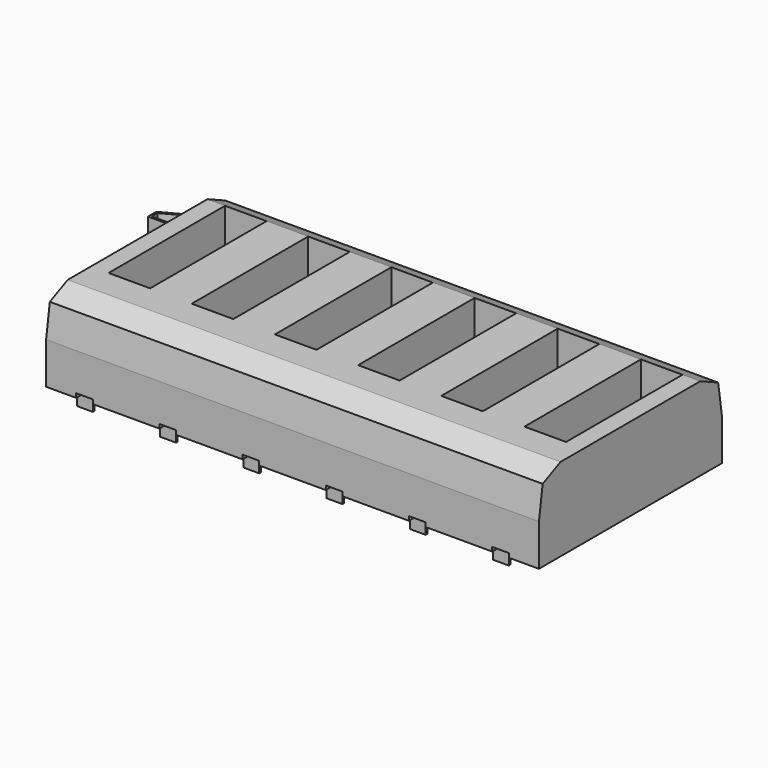
from build123d import *

# Parameters (mm, degrees)
SKETCH_W               = 23.7
SKETCH_H               = 11
PAD_DEPTH              = 4
CHAMFER_1_SIZE2        = 0.3
CHAMFER_1_SIZE         = 2
CHAMFER_2_SIZE2        = 0.3
CHAMFER_2_SIZE         = 2
CHAMFER001_1_SIZE2     = 1
CHAMFER001_1_SIZE      = 0.5
CHAMFER001_2_SIZE2     = 1
CHAMFER001_2_SIZE      = 0.5
SKETCH001_W            = 2
SKETCH001_H            = 7
POCKET_DEPTH           = 2
LINEARPATTERN_COUNT    = 6
LINEARPATTERN_PITCH    = 4
SKETCH002_W            = 0.8
SKETCH002_H            = 2.2
POCKET001_DEPTH        = 0.2
LINEARPATTERN001_COUNT = 6
LINEARPATTERN001_PITCH = 4
SKETCH003_W            = 1.2
SKETCH003_H            = 1.8
POCKET002_DEPTH        = 0.2
LINEARPATTERN002_COUNT = 5
LINEARPATTERN002_PITCH = 4
PAD001_DEPTH           = 1.8
SKETCH005_W            = 23
SKETCH005_H            = 10
PAD002_DEPTH           = 0.2
SKETCH006_W            = 0.76
SKETCH006_H            = 2.11
PAD003_DEPTH           = 0.2
LINEARPATTERN003_COUNT = 6
LINEARPATTERN003_PITCH = 4
SKETCH007_W            = 0.76
SKETCH007_H            = 1.75
PAD004_DEPTH           = 0.2
LINEARPATTERN004_COUNT = 5
LINEARPATTERN004_PITCH = 4
SKETCH008_W            = 0.75
SKETCH008_H            = 0.1
PAD005_DEPTH           = 0.2
PAD005_DEPTH_BACK      = 1
LINEARPATTERN005_COUNT = 5
LINEARPATTERN005_PITCH = 4
SKETCH009_W            = 0.76
SKETCH009_H            = 0.1
PAD006_DEPTH           = 1
LINEARPATTERN006_COUNT = 6
LINEARPATTERN006_PITCH = 4


with BuildPart() as body:
    # Sketch → Pad (new body)
    with BuildSketch(Plane.XY):
        with Locations((11.85, -5.5)):
            Rectangle(SKETCH_W, SKETCH_H)
    extrude(amount=PAD_DEPTH)

    # Chamfer 1
    chamfer_1_edges = [body.edges().sort_by_distance(p)[0] for p in [
        (11.85, -11, 4),
    ]]
    chamfer_1_side = body.faces().sort_by_distance((11.85, -11, 2))[0]
    chamfer(chamfer_1_edges, length=CHAMFER_1_SIZE, length2=CHAMFER_1_SIZE2, reference=chamfer_1_side)

    # Chamfer 2
    chamfer_2_edges = [body.edges().sort_by_distance(p)[0] for p in [
        (11.85, 0, 4),
    ]]
    chamfer_2_side = body.faces().sort_by_distance((11.85, 0, 2))[0]
    chamfer(chamfer_2_edges, length=CHAMFER_2_SIZE, length2=CHAMFER_2_SIZE2, reference=chamfer_2_side)

    # Chamfer001 1
    chamfer001_1_edges = [body.edges().sort_by_distance(p)[0] for p in [
        (11.85, -10.7, 4),
    ]]
    chamfer001_1_side = body.faces().sort_by_distance((11.85, -10.85, 3))[0]
    chamfer(chamfer001_1_edges, length=CHAMFER001_1_SIZE, length2=CHAMFER001_1_SIZE2, reference=chamfer001_1_side)

    # Chamfer001 2
    chamfer001_2_edges = [body.edges().sort_by_distance(p)[0] for p in [
        (11.85, -0.3, 4),
    ]]
    chamfer001_2_side = body.faces().sort_by_distance((11.85, -0.15, 3))[0]
    chamfer(chamfer001_2_edges, length=CHAMFER001_2_SIZE, length2=CHAMFER001_2_SIZE2, reference=chamfer001_2_side)

    # Sketch001 (on Face5 of Chamfer001) → Pocket (cut)
    with BuildSketch(Plane.XY.offset(4)):
        with Locations((1.85, -4.807466)):
            Rectangle(SKETCH001_W, SKETCH001_H)
    pocket = extrude(amount=-POCKET_DEPTH, mode=Mode.SUBTRACT)

    # LinearPattern: Pocket ×6
    with Locations(*[(i * LINEARPATTERN_PITCH, 0, 0) for i in range(1, LINEARPATTERN_COUNT)]):
        add(pocket, mode=Mode.SUBTRACT)

    # Sketch002 (on Face6 of LinearPattern) → Pocket001 (cut)
    with BuildSketch(Plane(origin=(0, 0, 0), x_dir=(1, 0, 0), z_dir=(0, 0, -1))):
        with Locations((1.85, 9.9)):
            Rectangle(SKETCH002_W, SKETCH002_H)
    pocket001 = extrude(amount=-POCKET001_DEPTH, mode=Mode.SUBTRACT)

    # LinearPattern001: Pocket001 ×6
    with Locations(*[(i * LINEARPATTERN001_PITCH, 0, 0) for i in range(1, LINEARPATTERN001_COUNT)]):
        add(pocket001, mode=Mode.SUBTRACT)

    # Sketch003 (on Face6 of LinearPattern001) → Pocket002 (cut)
    with BuildSketch(Plane(origin=(0, 0, 0), x_dir=(1, 0, 0), z_dir=(0, 0, -1))):
        with Locations((3.85, 0.9)):
            Rectangle(SKETCH003_W, SKETCH003_H)
    pocket002 = extrude(amount=-POCKET002_DEPTH, mode=Mode.SUBTRACT)

    # LinearPattern002: Pocket002 ×5
    with Locations(*[(i * LINEARPATTERN002_PITCH, 0, 0) for i in range(1, LINEARPATTERN002_COUNT)]):
        add(pocket002, mode=Mode.SUBTRACT)


with BuildPart() as body001:
    # Sketch004 → Pad001 (new body)
    with BuildSketch(Plane.XY):
        with BuildLine():
            ThreePointArc((0.777857, 1.455142), (0, 1.65), (-0.777857, 1.455142))
            Line((-0.777857, 1.455142), (-3.5, 0))
            Line((-3.5, 0), (-3.5, -0.5))
            Line((-3.5, -0.5), (3.5, -0.5))
            Line((3.5, -0.5), (3.5, 0))
            Line((0.777857, 1.455142), (3.5, 0))
        make_face()
        with BuildLine():
            Line((-0.730725, 1.366946), (-3.4, -0.059935))
            Line((-3.4, -0.059935), (-3.4, -0.4))
            Line((-3.4, -0.4), (3.4, -0.4))
            Line((3.4, -0.059935), (3.4, -0.4))
            Line((3.4, -0.059935), (0.730714, 1.366952))
            ThreePointArc((0.730714, 1.366952), (-6e-06, 1.55), (-0.730725, 1.366946))
        make_face(mode=Mode.SUBTRACT)
    extrude(amount=PAD001_DEPTH)


with BuildPart() as body002:
    # Sketch005 → Pad002 (new body)
    with BuildSketch(Plane.XY):
        with Locations((11.5, -5)):
            Rectangle(SKETCH005_W, SKETCH005_H)
    extrude(amount=PAD002_DEPTH)

    # Sketch006 (on Face6 of Pad002) → Pad003 (join)
    with BuildSketch(Plane.XY.offset(0.2)):
        with Locations((1.55, -9.445)):
            Rectangle(SKETCH006_W, SKETCH006_H)
    pad003 = extrude(amount=PAD003_DEPTH)

    # LinearPattern003: Pad003 ×6
    with Locations(*[(i * LINEARPATTERN003_PITCH, 0, 0) for i in range(1, LINEARPATTERN003_COUNT)]):
        add(pad003)

    # Sketch007 (on Face5 of LinearPattern003) → Pad004 (join)
    with BuildSketch(Plane.XY.offset(0.2)):
        with Locations((3.57, -0.375)):
            Rectangle(SKETCH007_W, SKETCH007_H)
    pad004 = extrude(amount=PAD004_DEPTH)

    # LinearPattern004: Pad004 ×5
    with Locations(*[(i * LINEARPATTERN004_PITCH, 0, 0) for i in range(1, LINEARPATTERN004_COUNT)]):
        add(pad004)

    # Sketch008 (on Face5 of LinearPattern004) → Pad005 (join, two sides)
    with BuildSketch(Plane.XY.offset(0.2)) as pad005_sk:
        with Locations((3.565, 0.55)):
            Rectangle(SKETCH008_W, SKETCH008_H)
    pad005 = extrude(amount=PAD005_DEPTH) + extrude(pad005_sk.sketch, amount=-PAD005_DEPTH_BACK)

    # LinearPattern005: Pad005 ×5
    with Locations(*[(i * LINEARPATTERN005_PITCH, 0, 0) for i in range(1, LINEARPATTERN005_COUNT)]):
        add(pad005)

    # Sketch009 (on Face62 of LinearPattern005) → Pad006 (join)
    with BuildSketch(Plane.XY.offset(0.4)):
        with Locations((1.55, -10.55)):
            Rectangle(SKETCH009_W, SKETCH009_H)
    pad006 = extrude(amount=-PAD006_DEPTH)

    # LinearPattern006: Pad006 ×6
    with Locations(*[(i * LINEARPATTERN006_PITCH, 0, 0) for i in range(1, LINEARPATTERN006_COUNT)]):
        add(pad006)


solid = Compound([body.part, body001.part, body002.part])
